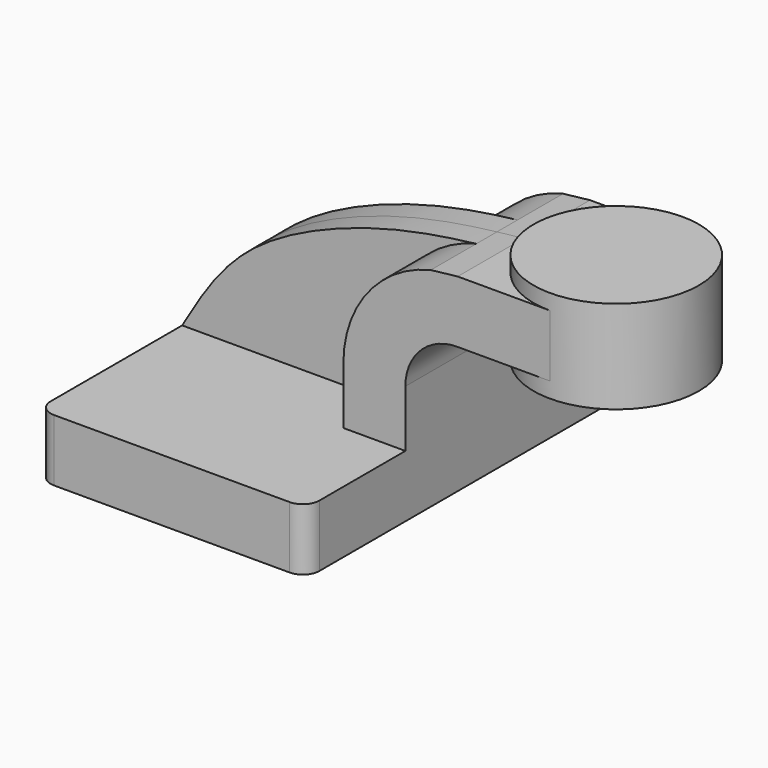
from build123d import *

# Parameters (mm, degrees)
F1_DEPTH = 63.5
F0_W     = 25.4
F0_H     = 19.0494729435
F2_DEPTH = 25.4
F3_DEPTH = 7.9375
F5_R     = 5.08


with BuildPart() as f1:
    # F0 (on Front) → F1 (new body, symmetric)
    with BuildSketch(Plane.XZ):
        Polygon((-41.275, -9.525), (41.275, -9.525), (41.275, 9.525), (22.225, 9.525), (-41.275, 9.525), align=None)
    extrude(amount=F1_DEPTH, both=True)

    # F0 (on Front) → F2 (join, symmetric)
    with BuildSketch(Plane.XZ):
        with BuildLine():
            Line((22.225, 9.525), (41.275, 9.525))
            Line((41.275, 9.525), (41.275, 27.0002))
            ThreePointArc((41.275, 27.0002), (45.9246798487, 38.2255201513), (57.15, 42.8752))
            Line((57.15, 42.8752), (60.325, 42.8752))
            Line((60.325, 42.8752), (60.325, 61.9246729435))
            Line((60.325, 61.9246729435), (57.3418713593, 61.9246729435))
            add(Edge.make_bspline(
                [(49.0812338438, 60.9803506429), (51.8498488653, 61.3134633904), (54.5982729036, 61.6187718243), (57.3418713593, 61.9246729435)],
                knots=[0.9234728765, 0.9234728765, 0.9234728765, 0.9234728765, 1, 1, 1, 1], degree=3))
            ThreePointArc((49.0812338438, 60.9803506429), (29.7496598287, 48.6560764195), (22.225, 27.0002))
            Line((22.225, 27.0002), (22.225, 9.525))
        make_face()
        with Locations((73.025, 52.3999364718)):
            Rectangle(F0_W, F0_H)
    extrude(amount=F2_DEPTH, both=True)

    # F0 (on Front) → F3 (join, symmetric)
    with BuildSketch(Plane.XZ):
        with BuildLine():
            add(Edge.make_bspline(
                [(-41.275, 9.525), (-35.6876151592, 19.084335553), (-23.5641065751, 39.7994014349), (17.4108050565, 56.5096118561), (40.0708590665, 59.8962451699), (49.0812338438, 60.9803506429)],
                knots=[0, 0, 0, 0, 0.3116488423, 0.6744176422, 0.9234728765, 0.9234728765, 0.9234728765, 0.9234728765], degree=3))
            Line((-41.275, 9.525), (22.225, 9.525))
            Line((22.225, 9.525), (22.225, 27.0002))
            ThreePointArc((22.225, 27.0002), (29.7496598287, 48.6560764195), (49.0812338438, 60.9803506429))
        make_face()
    extrude(amount=F3_DEPTH, both=True)

    # F0 (on Front) → F4 (revolve)
    with BuildSketch(Plane.XZ):
        Polygon((85.725, 61.9246729435), (85.725, 42.8752), (85.725, 38.1), (111.125, 38.1), (111.125, 66.675), (85.725, 66.675), align=None)
    revolve(axis=Axis((85.725, 0, 52.3875), (0, 0, -1)))

    # F5
    f5_edges = [f1.edges().sort_by_distance(p)[0] for p in [
        (41.275, -63.5, 0),
        (-41.275, -63.5, 0),
        (-41.275, 63.5, 0),
        (41.275, 63.5, 0),
    ]]
    fillet(f5_edges, radius=F5_R)


solid = f1.part
